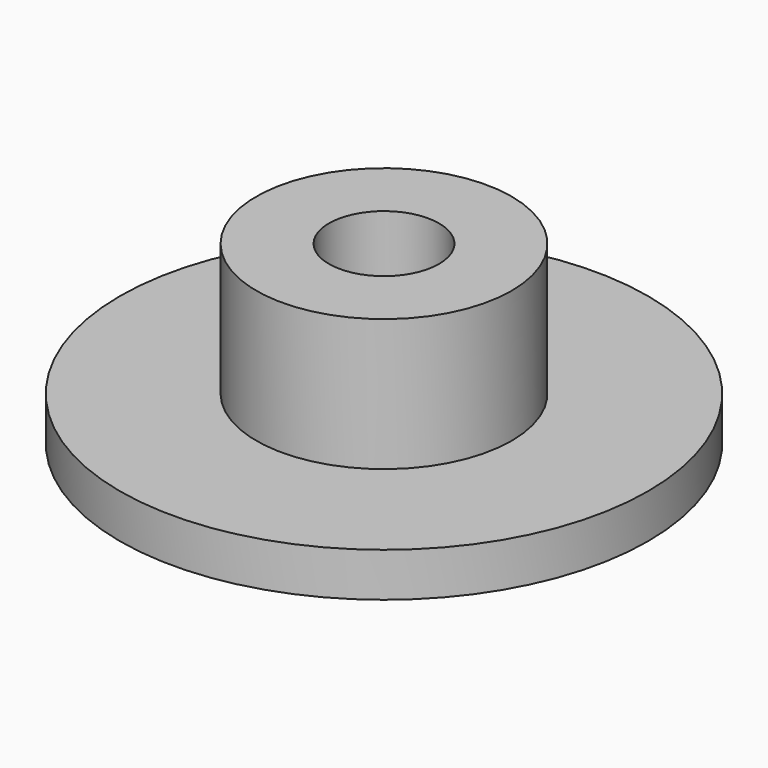
from build123d import *

# Parameters (mm, degrees)
F0_R     = 15.24
F0_R_2   = 7.366
F1_DEPTH = 2.54
F2_R     = 7.366
F3_DEPTH = 7.62
F4_R     = 3.175
F5_DEPTH = 25.4


with BuildPart() as f1:
    # F0 (on Top) → F1 (new body)
    with BuildSketch(Plane.XY):
        Circle(F0_R)
        Circle(F0_R_2, mode=Mode.SUBTRACT)
        Circle(F0_R_2)
    extrude(amount=F1_DEPTH)

    # F2 (on face) → F3 (join)
    with BuildSketch(Plane.XY.offset(2.54)):
        Circle(F2_R)
    extrude(amount=F3_DEPTH)

    # F4 (on face) → F5 (cut)
    with BuildSketch(Plane.XY.offset(10.16)):
        Circle(F4_R)
    extrude(amount=-F5_DEPTH, mode=Mode.SUBTRACT)


solid = f1.part
